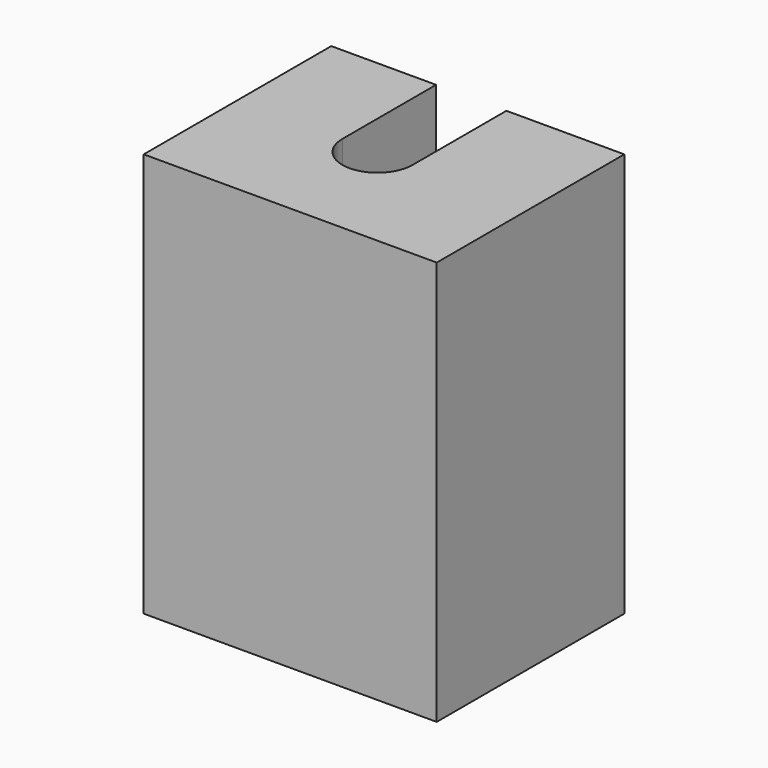
from build123d import *

# Parameters (mm, degrees)
F1_DEPTH = 690


with BuildPart() as f1:
    # F0 (on Top) → F1 (new body)
    with BuildSketch(Plane.XY):
        with BuildLine():
            Line((-500, -400), (0, -400))
            Line((0, -400), (0, 0))
            Line((0, 0), (-201.124857, 0))
            Line((-201.124857, 0), (-201.124857, -200))
            ThreePointArc((-201.124857, -200), (-261.124857, -260), (-321.124857, -200))
            Line((-321.124857, -200), (-321.124857, 0))
            Line((-321.124857, 0), (-500, 0))
            Line((-500, 0), (-500, -400))
        make_face()
    extrude(amount=F1_DEPTH)


solid = f1.part
